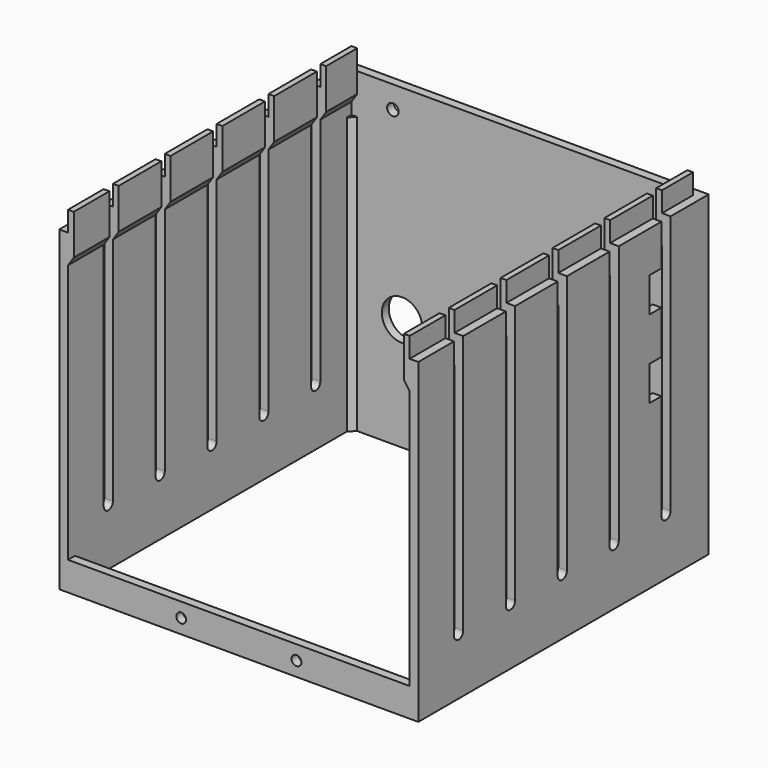
from build123d import *

# Parameters (mm, degrees)
PAD_DEPTH           = 110
PAD001_DEPTH        = 96
SKETCH003_W         = 118.6
SKETCH003_H         = 10
PAD002_DEPTH        = 3
PAD003_DEPTH        = 123
POCKET001_DEPTH     = 124.601
LINEARPATTERN_COUNT = 5
LINEARPATTERN_PITCH = 22.5
SKETCH012_W         = 6
SKETCH012_H         = 12
POCKET_DEPTH        = 5
SKETCH013_R         = 1.7
POCKET004_DEPTH     = 126.001
SKETCH014_R         = 7
SKETCH014_R_2       = 2
POCKET005_DEPTH     = 5


with BuildPart() as part:
    # Sketch → Pad (new body)
    with BuildSketch(Plane.XY):
        Polygon((62.3, 64.5), (-62.3, 64.5), (-62.3, -61.5), (-59.3, -61.5), (-59.3, 61.5), (59.3, 61.5), (59.3, -61.5), (62.3, -61.5), align=None)
    extrude(amount=PAD_DEPTH)

    # Sketch001 → Pad001 (join)
    with BuildSketch(Plane.XY):
        Polygon((-59.3, 59.5), (-57.3, 61.5), (-59.3, 61.5), align=None)
    pad001 = extrude(amount=PAD001_DEPTH)

    # Mirrored: Pad001 across YZ
    add(pad001.mirror(Plane.YZ))

    # Sketch003 (on DatumPlane) → Pad002 (join)
    with BuildSketch(Plane.XZ.offset(61.5)):
        with Locations((0, 5)):
            Rectangle(SKETCH003_W, SKETCH003_H)
    extrude(amount=-PAD002_DEPTH)

    # Sketch004 (on DatumPlane) → Pad003 (join)
    with BuildSketch(Plane.XZ.offset(61.5)):
        Polygon((-57.3, 117), (-59.3, 117), (-59.3, 100), (-57.3, 103), align=None)
        Polygon((57.3, 103), (57.3, 117), (59.3, 117), (59.3, 100), align=None)
    extrude(amount=-PAD003_DEPTH)

    # Sketch009 (on DatumPlane) → Pocket001 (cut, through all)
    with BuildSketch(Plane.YZ.offset(62.3)):
        with BuildLine():
            Line((-46, 20), (-46, 243))
            ThreePointArc((-42, 243), (-44, 245), (-46, 243))
            Line((-42, 243), (-42, 20))
            ThreePointArc((-46, 20), (-44, 18), (-42, 20))
        make_face()
    pocket001 = extrude(amount=-POCKET001_DEPTH, mode=Mode.SUBTRACT)

    # LinearPattern: Pocket001 ×5
    with Locations(*[(0, i * LINEARPATTERN_PITCH, 0) for i in range(1, LINEARPATTERN_COUNT)]):
        add(pocket001, mode=Mode.SUBTRACT)

    # Sketch012 (on DatumPlane) → Pocket (cut)
    with BuildSketch(Plane.YZ.offset(62.3)):
        with Locations((41.830656, 89.723986)):
            Rectangle(SKETCH012_W, SKETCH012_H)
        with Locations((41.830656, 62.651357)):
            Rectangle(SKETCH012_W, SKETCH012_H)
    extrude(amount=-POCKET_DEPTH, mode=Mode.SUBTRACT)

    # Sketch013 (on DatumPlane) → Pocket004 (cut, through all)
    with BuildSketch(Plane.XZ.offset(-64.5)):
        with Locations((20, 5)):
            Circle(SKETCH013_R)
        with Locations((-20, 5)):
            Circle(SKETCH013_R)
    extrude(amount=POCKET004_DEPTH, mode=Mode.SUBTRACT)

    # Sketch014 (on DatumPlane) → Pocket005 (cut)
    with BuildSketch(Plane.XZ.offset(-64.5)):
        with Locations((-16.307726, 38.976202)):
            Circle(SKETCH014_R)
        with Locations((-41.748446, 38.976202)):
            Circle(SKETCH014_R)
        with Locations((-44.911871, 102.251883)):
            Circle(SKETCH014_R_2)
    extrude(amount=POCKET005_DEPTH, mode=Mode.SUBTRACT)


with BuildPart() as part_1:
    # Body placement: moved
    add(part.part.moved(Location((1.4, 0, 0))))


solid = part_1.part
